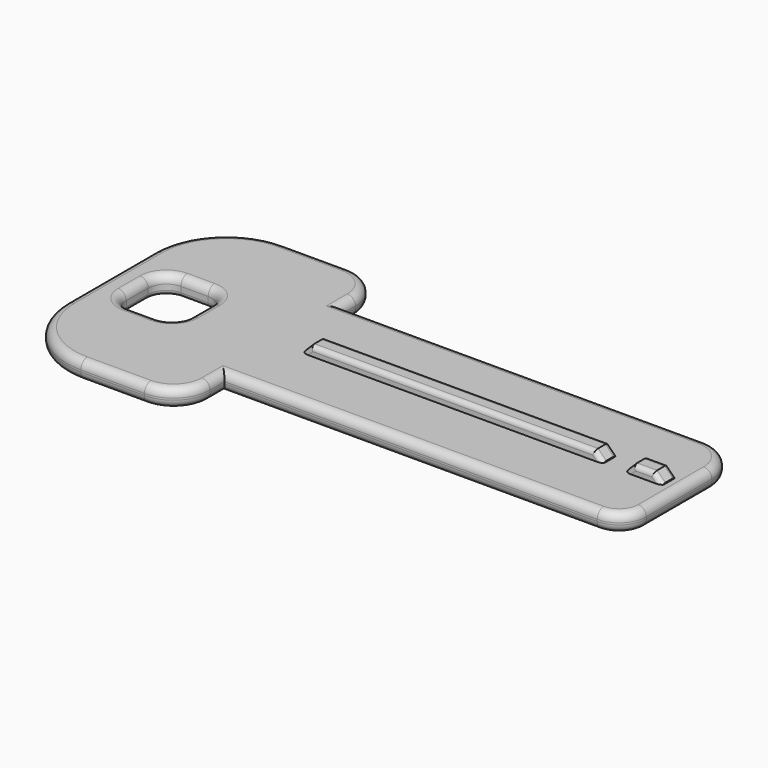
from build123d import *

# Parameters (mm, degrees)
SKETCH_W      = 7
SKETCH_H      = 7
PAD_DEPTH     = 2
FILLET_R      = 4
FILLET001_R   = 8
FILLET002_R   = 2
FILLET003_R   = 3
SKETCH001_W   = 33
SKETCH001_H   = 2
SKETCH001_W_2 = 4
PAD001_DEPTH  = 1
FILLET004_R   = 4
CHAMFER_SIZE  = 0.9
FILLET005_R   = 0.9
FILLET006_R   = 0.9
FILLET007_R   = 0.9
FILLET008_R   = 0.5
FILLET009_R   = 0.5
FILLET010_R   = 0.5


with BuildPart() as part:
    # Sketch → Pad (new body)
    with BuildSketch(Plane.XY):
        Polygon((-11.80015, 8), (32.19985, 8), (32.19985, -8), (-11.80015, -8), (-11.80015, -14), (-30.80015, -14), (-30.80015, 14), (-11.80015, 14), align=None)
        with Locations((-24.30015, 0)):
            Rectangle(SKETCH_W, SKETCH_H, mode=Mode.SUBTRACT)
    extrude(amount=PAD_DEPTH)

    # Fillet
    fillet_edges = [part.edges().sort_by_distance(p)[0] for p in [
        (-11.80015, -14, 1),
        (-11.80015, 14, 1),
    ]]
    fillet(fillet_edges, radius=FILLET_R)

    # Fillet001
    fillet001_edges = [part.edges().sort_by_distance(p)[0] for p in [
        (-30.80015, -14, 1),
        (-30.80015, 14, 1),
    ]]
    fillet(fillet001_edges, radius=FILLET001_R)

    # Fillet002
    fillet002_edges = [part.edges().sort_by_distance(p)[0] for p in [
        (-20.80015, -3.5, 1),
        (-20.80015, 3.5, 1),
        (-27.80015, 3.5, 1),
        (-27.80015, -3.5, 1),
    ]]
    fillet(fillet002_edges, radius=FILLET002_R)

    # Fillet003
    fillet003_edges = [part.edges().sort_by_distance(p)[0] for p in [
        (32.19985, -8, 1),
    ]]
    fillet(fillet003_edges, radius=FILLET003_R)

    # Sketch001 → Pad001 (new body)
    with BuildSketch(Plane.XY.offset(2)):
        with Locations((7.69985, 0)):
            Rectangle(SKETCH001_W, SKETCH001_H)
        with Locations((28.69985, 0)):
            Rectangle(SKETCH001_W_2, SKETCH001_H)
    extrude(amount=PAD001_DEPTH)

    # Fillet004
    fillet004_edges = [part.edges().sort_by_distance(p)[0] for p in [
        (32.19985, 8, 1),
    ]]
    fillet(fillet004_edges, radius=FILLET004_R)

    # Chamfer
    chamfer_edges = [part.edges().sort_by_distance(p)[0] for p in [
        (-8.80015, 0, 3),
        (24.19985, 0, 3),
        (26.69985, 0, 3),
        (30.69985, 0, 3),
    ]]
    chamfer(chamfer_edges, length=CHAMFER_SIZE)

    # Fillet005
    fillet005_edges = [part.edges().sort_by_distance(p)[0] for p in [
        (8.69985, -8, 2),
        (31.32117, -7.12132, 2),
        (32.19985, -0.5, 2),
        (31.028277, 6.828427, 2),
        (8.19985, 8, 2),
        (-11.80015, -9, 2),
        (-12.971723, -12.828427, 2),
        (-19.30015, -14, 2),
        (-28.457005, -11.656854, 2),
        (-30.80015, 0, 2),
        (-28.457005, 11.656854, 2),
        (-19.30015, 14, 2),
        (-12.971723, 12.828427, 2),
        (-11.80015, 9, 2),
    ]]
    fillet(fillet005_edges, radius=FILLET005_R)

    # Fillet006
    fillet006_edges = [part.edges().sort_by_distance(p)[0] for p in [
        (-21.385937, 2.914214, 2),
        (-20.80015, 0, 2),
        (-21.385937, -2.914214, 2),
        (-24.30015, -3.5, 2),
        (-27.214364, -2.914214, 2),
        (-27.80015, 0, 2),
        (-27.214364, 2.914214, 2),
        (-24.30015, 3.5, 2),
    ]]
    fillet(fillet006_edges, radius=FILLET006_R)

    # Fillet007
    fillet007_edges = [part.edges().sort_by_distance(p)[0] for p in [
        (8.69985, -8, 0),
        (31.32117, -7.12132, 0),
        (32.19985, -0.5, 0),
        (31.028277, 6.828427, 0),
        (8.19985, 8, 0),
        (-11.80015, 9, 0),
        (-12.971723, 12.828427, 0),
        (-19.30015, 14, 0),
        (-28.457005, 11.656854, 0),
        (-30.80015, 0, 0),
        (-28.457005, -11.656854, 0),
        (-19.30015, -14, 0),
        (-12.971723, -12.828427, 0),
        (-11.80015, -9, 0),
    ]]
    fillet(fillet007_edges, radius=FILLET007_R)

    # Fillet008
    fillet008_edges = [part.edges().sort_by_distance(p)[0] for p in [
        (-27.80015, 0, 0),
        (-27.214364, -2.914214, 0),
        (-24.30015, -3.5, 0),
        (-21.385937, -2.914214, 0),
        (-20.80015, 0, 0),
        (-21.385937, 2.914214, 0),
        (-24.30015, 3.5, 0),
        (-27.214364, 2.914214, 0),
    ]]
    fillet(fillet008_edges, radius=FILLET008_R)

    # Fillet009
    fillet009_edges = [part.edges().sort_by_distance(p)[0] for p in [
        (28.69985, -1, 3),
        (27.14985, -1, 2.55),
        (27.14985, 1, 2.55),
        (28.69985, 1, 3),
        (30.24985, 1, 2.55),
        (30.24985, -1, 2.55),
    ]]
    fillet(fillet009_edges, radius=FILLET009_R)

    # Fillet010
    fillet010_edges = [part.edges().sort_by_distance(p)[0] for p in [
        (7.69985, -1, 3),
        (7.69985, 1, 3),
        (23.74985, 1, 2.55),
        (23.74985, -1, 2.55),
        (-8.35015, -1, 2.55),
        (-8.35015, 1, 2.55),
    ]]
    fillet(fillet010_edges, radius=FILLET010_R)


solid = part.part
